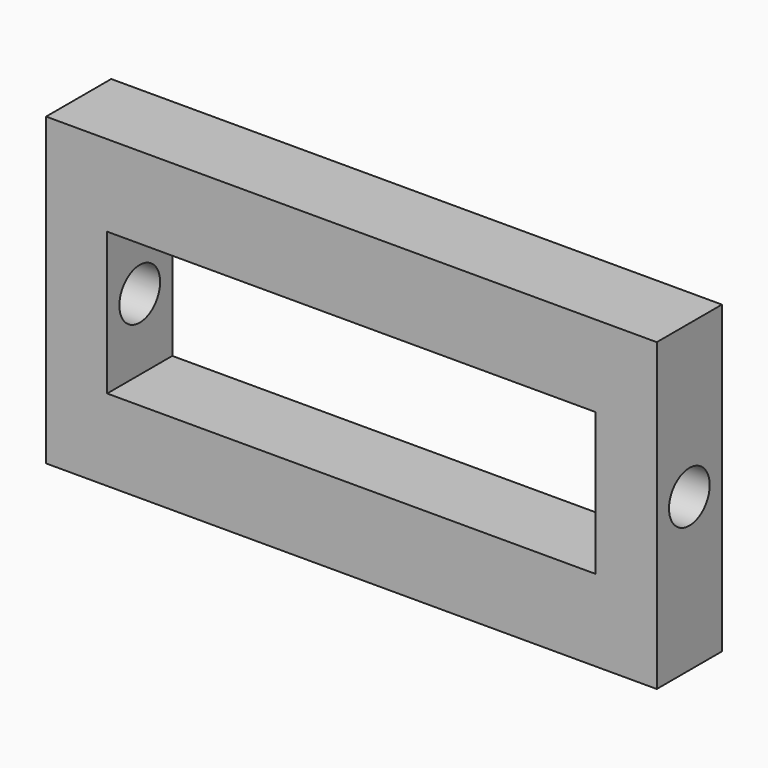
from build123d import *

# Parameters (mm, degrees)
F0_W     = 95.25
F0_H     = 47.625
F0_W_2   = 76.2
F0_H_2   = 22.225
F1_DEPTH = 12.7
F2_R     = 3.96875
F3_DEPTH = 95.251


with BuildPart() as f1:
    # F0 (on Front) → F1 (new body)
    with BuildSketch(Plane.XZ):
        Rectangle(F0_W, F0_H)
        Rectangle(F0_W_2, F0_H_2, mode=Mode.SUBTRACT)
    extrude(amount=F1_DEPTH)

    # F2 (on face) → F3 (cut, through all)
    with BuildSketch(Plane(origin=(-47.625, 0, 0), x_dir=(0, -1, 0), z_dir=(-1, 0, 0))):
        with Locations((6.35, 0)):
            Circle(F2_R)
    extrude(amount=-F3_DEPTH, mode=Mode.SUBTRACT)


solid = f1.part
